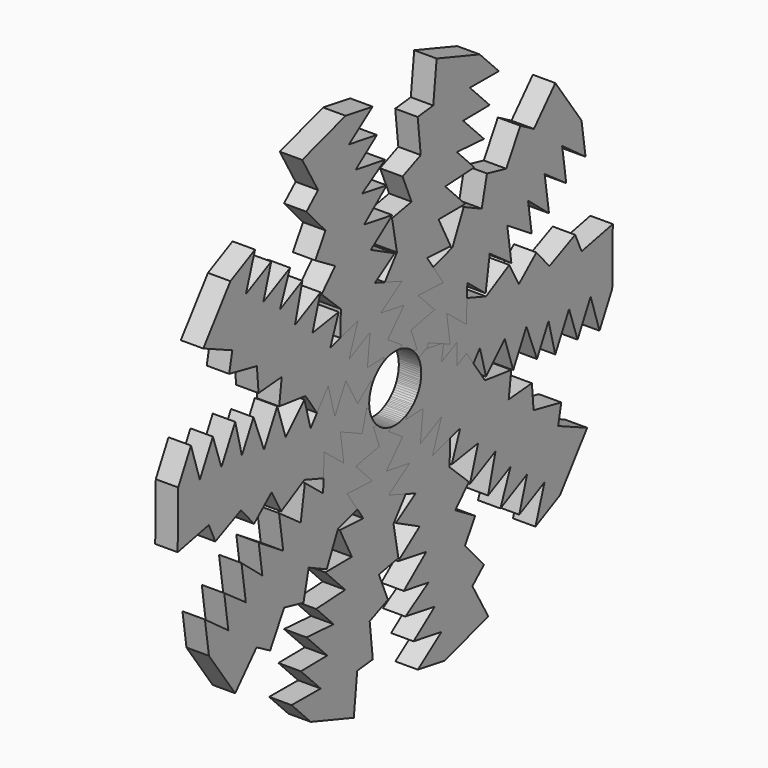
from build123d import *

# Parameters (mm, degrees)
F1_DEPTH = 4
F2_COUNT = 10
F3_R     = 5.801257
F4_DEPTH = 25


with BuildPart() as f1:
    # F0 (on Right) → F1 (new body)
    with BuildSketch(Plane.YZ):
        Polygon((61.204612, -43.047432), (64.039841, -37.623517), (64.163111, -27.515313), (57.217119, -28.970161), (55.780698, -25.789522), (50.039002, -28.382553), (47.151741, -25.049897), (43.238203, -28.440408), (41.111473, -24.556814), (35.934102, -27.392041), (29.154208, -25.023097), (28.04477, -27.145499), (25.913329, -24.115036), (24.100104, -27.583812), (22.867398, -25.049897), (19.241888, -26.813645), (15.717693, -33.555582), (15.717693, -36.883891), (20.032171, -33.062499), (21.141609, -36.883891), (24.100104, -34.541748), (26.721548, -39.19553), (29.154208, -34.541748), (30.633459, -39.965663), (34.578122, -34.911558), (35.934102, -39.965663), (40.125307, -35.774454), (41.989521, -41.405204), (44.932868, -35.774454), (47.281513, -41.823724), (49.8637, -36.883891), (51.353699, -42.758882), (54.424718, -36.883891), (56.317687, -42.459631), (59.23228, -36.883891), align=None)
    extrude(amount=F1_DEPTH)


with BuildPart() as f2_1:
    # F2: instance of F1
    add(f1.part.rotate(Axis((2, 15.717693, -33.555582), (1, 0, 0)), 1 * 360 / F2_COUNT))


with BuildPart() as f2_2:
    # F2: instance of F1
    add(f1.part.rotate(Axis((2, 15.717693, -33.555582), (1, 0, 0)), 2 * 360 / F2_COUNT))


with BuildPart() as f2_3:
    # F2: instance of F1
    add(f1.part.rotate(Axis((2, 15.717693, -33.555582), (1, 0, 0)), 3 * 360 / F2_COUNT))


with BuildPart() as f2_4:
    # F2: instance of F1
    add(f1.part.rotate(Axis((2, 15.717693, -33.555582), (1, 0, 0)), 4 * 360 / F2_COUNT))


with BuildPart() as f2_5:
    # F2: instance of F1
    add(f1.part.rotate(Axis((2, 15.717693, -33.555582), (1, 0, 0)), 5 * 360 / F2_COUNT))


with BuildPart() as f2_6:
    # F2: instance of F1
    add(f1.part.rotate(Axis((2, 15.717693, -33.555582), (1, 0, 0)), 6 * 360 / F2_COUNT))


with BuildPart() as f2_7:
    # F2: instance of F1
    add(f1.part.rotate(Axis((2, 15.717693, -33.555582), (1, 0, 0)), 7 * 360 / F2_COUNT))


with BuildPart() as f2_8:
    # F2: instance of F1
    add(f1.part.rotate(Axis((2, 15.717693, -33.555582), (1, 0, 0)), 8 * 360 / F2_COUNT))


with BuildPart() as f2_9:
    # F2: instance of F1
    add(f1.part.rotate(Axis((2, 15.717693, -33.555582), (1, 0, 0)), 9 * 360 / F2_COUNT))


with BuildPart() as f4_tool:
    # F3 (on face) → F4 (new body)
    with BuildSketch(Plane(origin=(0, 0, 0), x_dir=(0, -1, 0), z_dir=(-1, 0, 0))):
        with Locations((-15.717693, -33.555582)):
            Circle(F3_R)
    extrude(amount=-F4_DEPTH)


with BuildPart() as f1_1:
    add(f1.part)

    # F4: cut by f4_tool
    add(f4_tool.part, mode=Mode.SUBTRACT)


with BuildPart() as f2_1_1:
    add(f2_1.part)

    # F4: cut by f4_tool
    add(f4_tool.part, mode=Mode.SUBTRACT)


with BuildPart() as f2_2_1:
    add(f2_2.part)

    # F4: cut by f4_tool
    add(f4_tool.part, mode=Mode.SUBTRACT)


with BuildPart() as f2_3_1:
    add(f2_3.part)

    # F4: cut by f4_tool
    add(f4_tool.part, mode=Mode.SUBTRACT)


with BuildPart() as f2_4_1:
    add(f2_4.part)

    # F4: cut by f4_tool
    add(f4_tool.part, mode=Mode.SUBTRACT)


with BuildPart() as f2_5_1:
    add(f2_5.part)

    # F4: cut by f4_tool
    add(f4_tool.part, mode=Mode.SUBTRACT)


with BuildPart() as f2_6_1:
    add(f2_6.part)

    # F4: cut by f4_tool
    add(f4_tool.part, mode=Mode.SUBTRACT)


with BuildPart() as f2_7_1:
    add(f2_7.part)

    # F4: cut by f4_tool
    add(f4_tool.part, mode=Mode.SUBTRACT)


with BuildPart() as f2_8_1:
    add(f2_8.part)

    # F4: cut by f4_tool
    add(f4_tool.part, mode=Mode.SUBTRACT)


with BuildPart() as f2_9_1:
    add(f2_9.part)

    # F4: cut by f4_tool
    add(f4_tool.part, mode=Mode.SUBTRACT)


solid = Compound([f1_1.part, f2_1_1.part, f2_2_1.part, f2_3_1.part, f2_4_1.part, f2_5_1.part, f2_6_1.part, f2_7_1.part, f2_8_1.part, f2_9_1.part])
